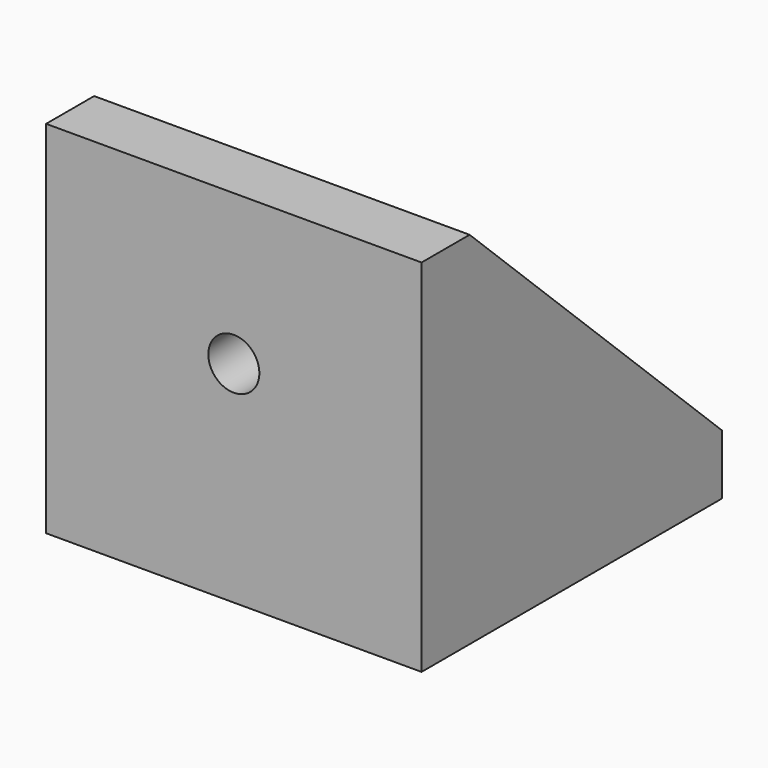
from build123d import *

# Parameters (mm, degrees)
F0_W      = 25
F0_H      = 25
F1_DEPTH  = 4
F2_W      = 25
F2_H      = 4
F3_DEPTH  = 20
F4_W      = 2
F4_H      = 20
F5_DEPTH  = 21
F6_SIZE2  = 20
F6_SIZE   = 21
F7_R      = 1.7
F8_DEPTH  = 25
F9_R      = 1.7
F10_DEPTH = 25


with BuildPart() as f1:
    # F0 (on Top) → F1 (new body)
    with BuildSketch(Plane.XY):
        with Locations((12.5, 12.5)):
            Rectangle(F0_W, F0_H)
    extrude(amount=F1_DEPTH)

    # F2 (on face) → F3 (join)
    with BuildSketch(Plane.XY.offset(4)):
        with Locations((12.5, 2)):
            Rectangle(F2_W, F2_H)
    extrude(amount=F3_DEPTH)

    # F4 (on face) → F5 (join)
    with BuildSketch(Plane(origin=(0, 4, 0), x_dir=(-1, 0, 0), z_dir=(0, 1, 0))):
        with Locations((-24, 14)):
            Rectangle(F4_W, F4_H)
        with Locations((-1, 14)):
            Rectangle(F4_W, F4_H)
    extrude(amount=F5_DEPTH)

    # F6
    f6_edges = [f1.edges().sort_by_distance(p)[0] for p in [
        (24, 25, 24),
        (1, 25, 24),
    ]]
    f6_side = f1.faces().sort_by_distance((0.353553, 12.5, 24))[0]
    chamfer(f6_edges, length=F6_SIZE, length2=F6_SIZE2, reference=f6_side)

    # F7 (on face) → F8 (cut)
    with BuildSketch(Plane(origin=(0, 4, 0), x_dir=(-1, 0, 0), z_dir=(0, 1, 0))):
        with Locations((-12.5, 14)):
            Circle(F7_R)
    extrude(amount=-F8_DEPTH, mode=Mode.SUBTRACT)

    # F9 (on face) → F10 (cut)
    with BuildSketch(Plane.XY.offset(4)):
        with Locations((12.5, 15)):
            Circle(F9_R)
    extrude(amount=-F10_DEPTH, mode=Mode.SUBTRACT)


solid = f1.part
